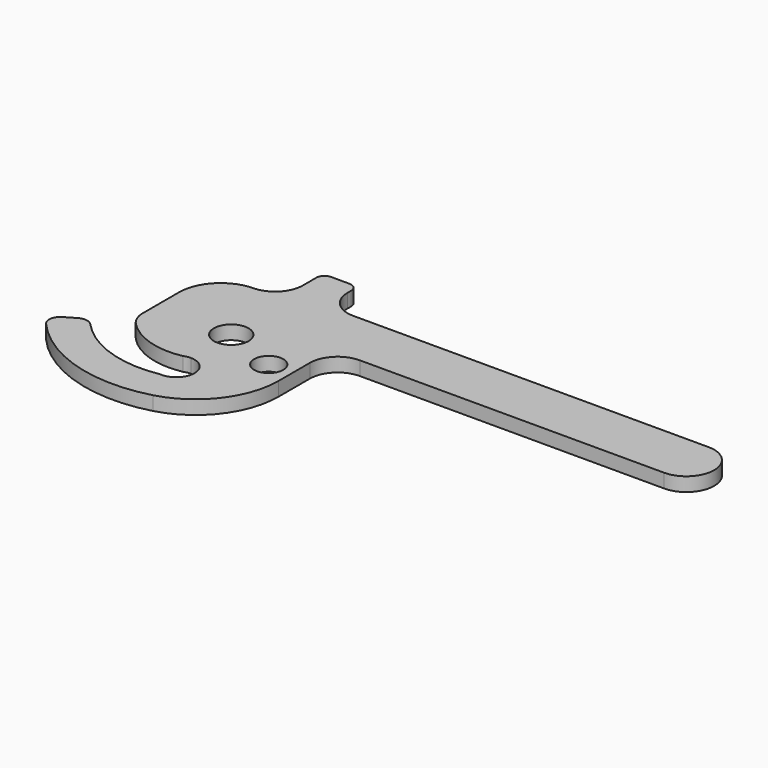
from build123d import *

# Parameters (mm, degrees)
F0_R     = 6.6675
F1_DEPTH = 6.35


with BuildPart() as f1:
    # F0 (on Top) → F1 (new body)
    with BuildSketch(Plane.XY):
        with BuildLine():
            ThreePointArc((0, -7.9375), (5.61266, -5.61266), (7.9375, 0))
            ThreePointArc((7.9375, 0), (-5.61266, 5.61266), (0, -7.9375))
        make_face()
        with BuildLine():
            ThreePointArc((-3.19381, -23.695523), (-1.627902, -23.2228), (0, -23.0632))
            ThreePointArc((0, -23.0632), (8.372137, -31.851707), (-0.812057, -39.787771))
            ThreePointArc((-0.812057, -39.787771), (-24.496198, -38.037618), (-44.408232, -25.094956))
            ThreePointArc((-44.408232, -25.094956), (-47.379559, -23.510637), (-50.688938, -24.132628))
            Line((-50.688938, -24.132628), (-55.635531, -26.988545))
            ThreePointArc((-55.635531, -26.988545), (-58.108455, -30.56516), (-56.908568, -34.744611))
            ThreePointArc((-56.908568, -34.744611), (-27.458308, -53.618524), (7.5184, -54.03359))
            ThreePointArc((7.5184, -54.03359), (27.748901, -40.39788), (35.56, -17.285276))
            Line((35.56, -17.285276), (35.56, 0))
            Line((35.56, 0), (35.56, 0.508))
            ThreePointArc((35.56, 0.508), (39.279744, 9.488256), (48.26, 13.208))
            Line((48.26, 13.208), (187.5028, 13.208))
            ThreePointArc((187.5028, 13.208), (200.2028, 25.908), (187.5028, 38.608))
            Line((187.5028, 38.608), (24.892, 38.608))
            ThreePointArc((24.892, 38.608), (15.911744, 42.327744), (12.192, 51.308))
            Line((12.192, 51.308), (12.192, 53.34))
            ThreePointArc((12.192, 53.34), (11.076077, 56.034077), (8.382, 57.15))
            Line((8.382, 57.15), (0, 57.15))
            ThreePointArc((0, 57.15), (-2.694077, 56.034077), (-3.81, 53.34))
            Line((-3.81, 53.34), (-3.81, 45.709836))
            ThreePointArc((-3.81, 45.709836), (-7.3519, 36.911018), (-16.002, 33.02))
            ThreePointArc((-16.002, 33.02), (-29.472384, 27.440384), (-35.052, 13.97))
            Line((-35.052, 13.97), (-35.052, -6.785096))
            ThreePointArc((-35.052, -6.785096), (-34.210819, -11.088793), (-31.811089, -14.759036))
            ThreePointArc((-31.811089, -14.759036), (-18.633931, -22.850619), (-3.19381, -23.695523))
        make_face()
        with BuildLine():
            ThreePointArc((0, -7.9375), (-5.61266, 5.61266), (7.9375, 0))
            ThreePointArc((7.9375, 0), (5.61266, -5.61266), (0, -7.9375))
        make_face(mode=Mode.SUBTRACT)
        with Locations((24.8666, -9.652)):
            Circle(F0_R, mode=Mode.SUBTRACT)
    extrude(amount=-F1_DEPTH)


solid = f1.part
